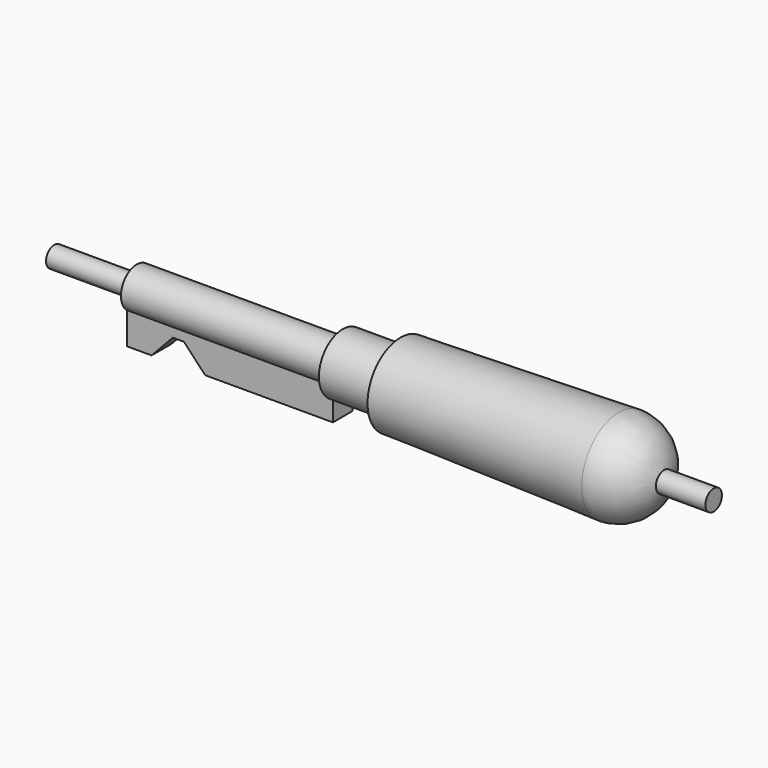
from build123d import *

# Parameters (mm, degrees)
F2_W          = 63.5
F2_H          = 14.5669
F3_DEPTH      = 3.81
F3_DEPTH_BACK = 3.81
F5_DEPTH      = 18.0985
F10_W         = 203.2
F10_H         = 3.175


with BuildPart() as f1:
    # F0 (on Front) → F1 (revolve)
    with BuildSketch(Plane.XZ):
        Polygon((148.59, 0), (148.59, 14.2875), (81.28, 12.7), (81.28, 9.2075), (63.5, 9.2075), (63.5, 6.096), (0, 6.096), (0, 0), align=None)
    revolve(axis=Axis((74.295, 0, 0), (1, 0, 0)))

    # F2 (on Front) → F3 (join, two sides)
    with BuildSketch(Plane.XZ) as f3_sk:
        with Locations((31.75, -7.28345)):
            Rectangle(F2_W, F2_H)
    extrude(amount=F3_DEPTH)
    extrude(f3_sk.sketch, amount=-F3_DEPTH_BACK)

    # F4 (on face) → F5 (cut, through all)
    with BuildSketch(Plane.XZ.offset(3.81)):
        Polygon((14.1605, -7.62), (7.62, -14.5669), (15.875, -14.5669), (15.875, -7.62), align=None)
        Polygon((15.875, -7.62), (15.875, -14.5669), (24.13, -14.5669), (17.5895, -7.62), align=None)
    extrude(amount=-F5_DEPTH, mode=Mode.SUBTRACT)

    # F6 (on Front) → F9 (revolve)
    with BuildSketch(Plane.XZ):
        with BuildLine():
            Line((148.59, 0), (162.8775, 0))
            ThreePointArc((162.8775, 0), (158.692788, 10.102788), (148.59, 14.2875))
            Line((148.59, 14.2875), (148.59, 0))
        make_face()
    revolve(axis=Axis((155.73375, 0, 0), (1, 0, 0)))

    # F10 (on Front) → F11 (revolve)
    with BuildSketch(Plane.XZ):
        with Locations((76.2, 1.5875)):
            Rectangle(F10_W, F10_H)
    revolve(axis=Axis((76.2, 0, 0), (1, 0, 0)))


with BuildPart() as f7:
    # F6 (on Front) → F7 (revolve)
    with BuildSketch(Plane.XZ):
        with BuildLine():
            Line((148.59, 0), (162.8775, 0))
            ThreePointArc((162.8775, 0), (158.692788, 10.102788), (148.59, 14.2875))
            Line((148.59, 14.2875), (148.59, 0))
        make_face()
    revolve(axis=Axis((155.73375, 0, 0), (-1, 0, 0)))


solid = f1.part
